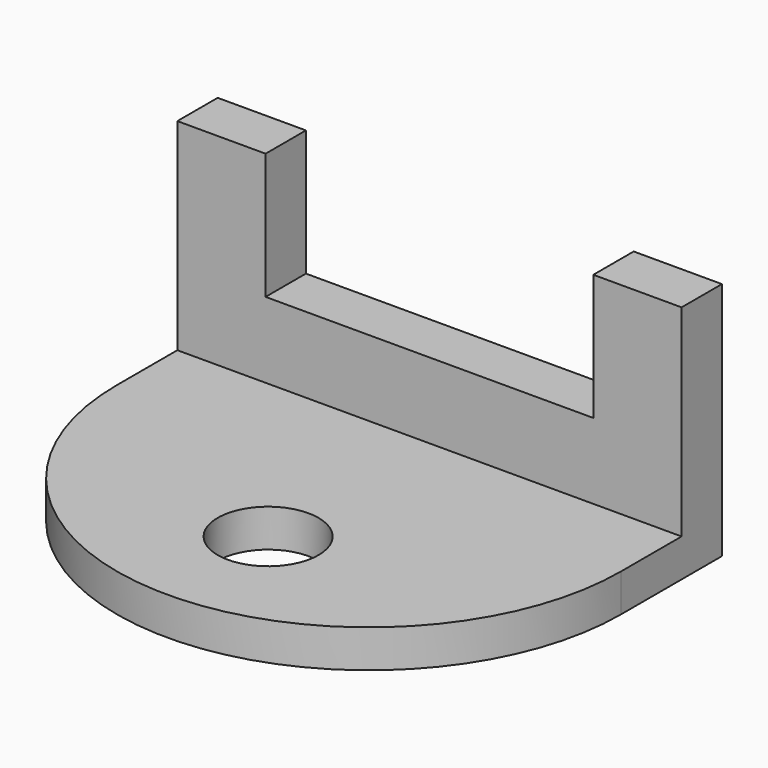
from build123d import *

# Parameters (mm, degrees)
F0_W     = 20
F0_H     = 5
F0_R     = 2
F1_DEPTH = 1.5
F2_W     = 3.5
F2_H     = 2
F3_DEPTH = 8
F4_W     = 13
F4_H     = 2
F5_DEPTH = 3


with BuildPart() as f1:
    # F0 (on Top) → F1 (new body)
    with BuildSketch(Plane.XY):
        Rectangle(F0_W, F0_H)
        with BuildLine():
            ThreePointArc((-10, -2.5), (0, -12.5), (10, -2.5))
            Line((10, -2.5), (-10, -2.5))
        make_face()
        with Locations((0, -7.5)):
            Circle(F0_R, mode=Mode.SUBTRACT)
    extrude(amount=F1_DEPTH)

    # F2 (on face) → F3 (join)
    with BuildSketch(Plane.XY.offset(1.5)):
        with Locations((-8.25, 1.5)):
            Rectangle(F2_W, F2_H)
        with Locations((8.25, 1.5)):
            Rectangle(F2_W, F2_H)
    extrude(amount=F3_DEPTH)

    # F4 (on face) → F5 (join)
    with BuildSketch(Plane.XY.offset(1.5)):
        with Locations((0, 1.5)):
            Rectangle(F4_W, F4_H)
    extrude(amount=F5_DEPTH)


solid = f1.part
